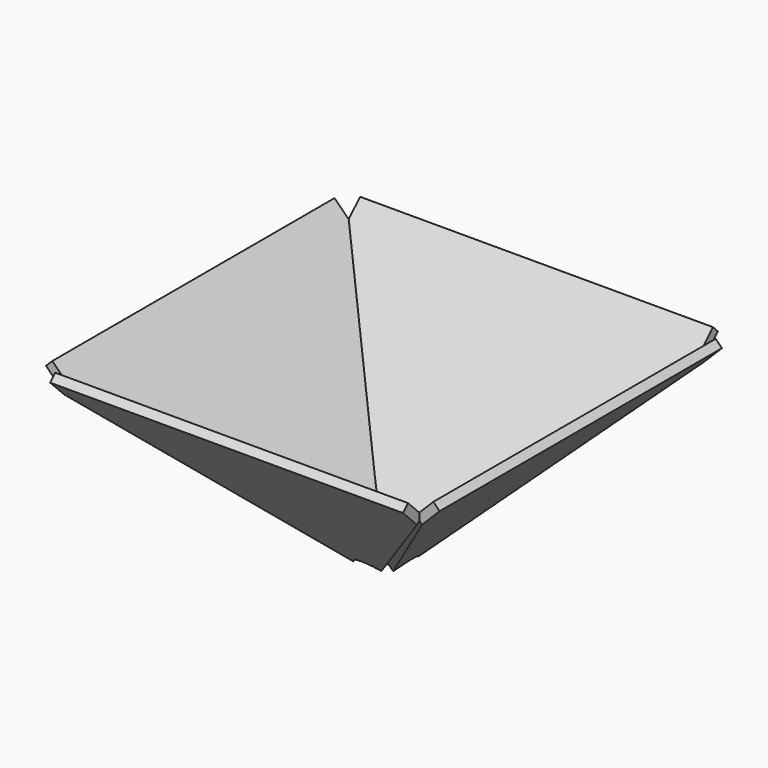
from build123d import *

# Parameters (mm, degrees)
F1_R     = 6.35
F1_R_2   = 0.596292201
F1_R_3   = 0.6276285376
F1_R_4   = 0.6452059184
F2_DEPTH = 2.54
F6_DEPTH = 2.54
F8_COUNT = 4


with BuildPart() as f2:
    # F1 (on offset) → F2 (new body)
    with BuildSketch(Plane.XY.offset(-38.1)):
        Circle(F1_R)
        with Locations((-2.4637027083, -4.3268695057)):
            Circle(F1_R_2, mode=Mode.SUBTRACT)
        with Locations((-4.9189763135, -0.77155867)):
            Circle(F1_R_2, mode=Mode.SUBTRACT)
        with Locations((-3.5289093279, -0.4339074749)):
            Circle(F1_R_3, mode=Mode.SUBTRACT)
        with Locations((-1.8609964532, -3.0295492969)):
            Circle(F1_R_3, mode=Mode.SUBTRACT)
        with Locations((-1.6576766823, -0.0822710035)):
            Circle(F1_R_4, mode=Mode.SUBTRACT)
        with Locations((-0.9692224455, -1.3473189497)):
            Circle(F1_R_4, mode=Mode.SUBTRACT)
        with Locations((1.2082847081, -3.3438787068)):
            Circle(F1_R_3, mode=Mode.SUBTRACT)
        with Locations((1.8467892867, -4.6239593515)):
            Circle(F1_R_2, mode=Mode.SUBTRACT)
        with Locations((0.4490760613, -1.5978082464)):
            Circle(F1_R_4, mode=Mode.SUBTRACT)
        with Locations((1.5292111344, -0.6451153443)):
            Circle(F1_R_4, mode=Mode.SUBTRACT)
        with Locations((3.3677028398, -1.1401992477)):
            Circle(F1_R_3, mode=Mode.SUBTRACT)
        with Locations((4.7666112811, -1.4391134941)):
            Circle(F1_R_2, mode=Mode.SUBTRACT)
        with Locations((-1.0978665669, 1.2447286863)):
            Circle(F1_R_4, mode=Mode.SUBTRACT)
        with Locations((-2.539481502, 2.4884755258)):
            Circle(F1_R_3, mode=Mode.SUBTRACT)
        with Locations((-3.6701604258, 3.3647515811)):
            Circle(F1_R_2, mode=Mode.SUBTRACT)
        with Locations((1.4578190332, 0.7933625701)):
            Circle(F1_R_4, mode=Mode.SUBTRACT)
        with Locations((0.2886594658, 1.6344222875)):
            Circle(F1_R_4, mode=Mode.SUBTRACT)
        with Locations((2.9911720444, 1.9220735007)):
            Circle(F1_R_3, mode=Mode.SUBTRACT)
        with Locations((4.0970777597, 2.829414177)):
            Circle(F1_R_2, mode=Mode.SUBTRACT)
        with Locations((0.3622276909, 3.5369856999)):
            Circle(F1_R_3, mode=Mode.SUBTRACT)
        with Locations((0.3423611201, 4.9673352632)):
            Circle(F1_R_2, mode=Mode.SUBTRACT)
    extrude(amount=-F2_DEPTH)

    # F5 (on line) → F6 (join)
    with BuildSketch(Plane(origin=(22.2152899925, 0, -22.2152899925), x_dir=(0, 1, 0), z_dir=(0.7071067812, 0, -0.7071067812))):
        with BuildLine():
            Line((50.8, 39.0278846025), (50.8, 46.1771496207))
            Line((50.8, 46.1771496207), (-50.8, 46.1771496207))
            Line((-50.8, 46.1771496207), (-50.8, 39.0397496207))
            Line((-50.8, 39.0397496207), (-4.1336421855, -25.5280994193))
            add(Edge.make_bspline(
                [(4.3526384979, -24.9266643077), (3.8955846256, -24.2998601068), (2.7114630656, -23.0603294466), (0.3029869884, -22.2310927453), (-0.7842524825, -22.6670452319), (-2.3957301529, -22.4846818278), (-3.483132352, -25.1432838778), (-4.1336421855, -25.5280994193)],
                knots=[0.1458567091, 0.1458567091, 0.1458567091, 0.1458567091, 0.3116911274, 0.4738604278, 0.5834960208, 0.7063841908, 0.8960855927, 0.8960855927, 0.8960855927, 0.8960855927], degree=3))
            Line((4.3526384979, -24.9266643077), (50.8, 39.0278846025))
        make_face()
    extrude(amount=F6_DEPTH)


with BuildPart() as f8_1:
    # F8: instance of F2
    add(f2.part.rotate(Axis((0, 0, -17.4586735666), (0, 0, 1)), 1 * 360 / F8_COUNT))


with BuildPart() as f8_2:
    # F8: instance of F2
    add(f2.part.rotate(Axis((0, 0, -17.4586735666), (0, 0, 1)), 2 * 360 / F8_COUNT))


with BuildPart() as f8_3:
    # F8: instance of F2
    add(f2.part.rotate(Axis((0, 0, -17.4586735666), (0, 0, 1)), 3 * 360 / F8_COUNT))


solid = Compound([f2.part, f8_1.part, f8_2.part, f8_3.part])
